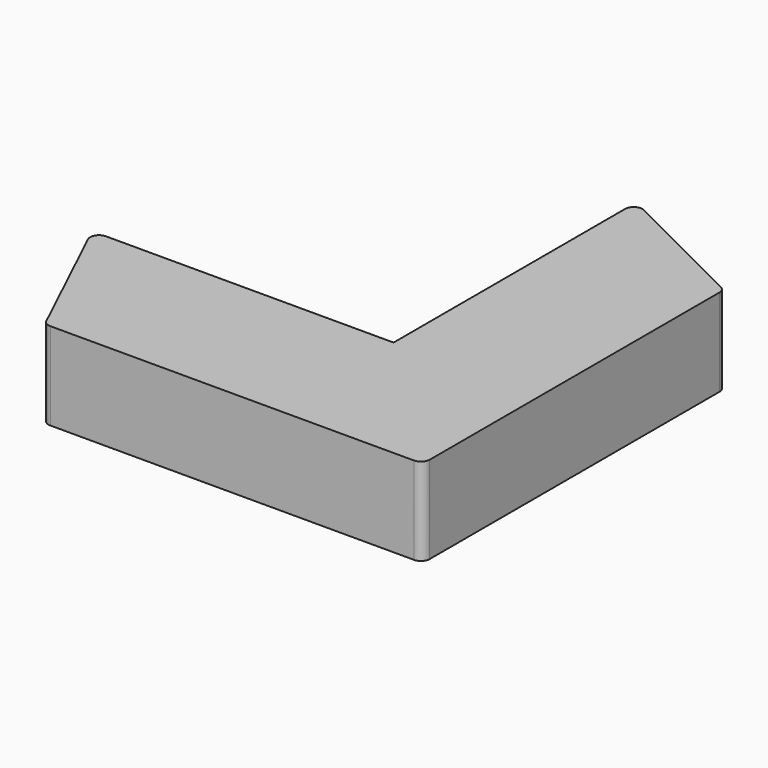
from build123d import *

# Parameters (mm, degrees)
PAD_DEPTH    = 15
POCKET_DEPTH = 8
PAD001_DEPTH = 15


with BuildPart() as part:
    # Sketch → Pad (new body)
    with BuildSketch(Plane.XY):
        with BuildLine():
            Line((-50.61699, -37.307126), (11.75, -37.307126))
            ThreePointArc((11.75, -37.307126), (12.81066, -36.867787), (13.25, -35.807126))
            Line((13.25, -35.807126), (13.25, 26.297858))
            ThreePointArc((13.25, 26.297858), (13.026109, 27.08624), (12.421272, 27.639273))
            Line((12.421272, 27.639273), (-9.578728, 38.648541))
            ThreePointArc((-9.578728, 38.648541), (-11.038382, 38.583235), (-11.75, 37.307126))
            Line((-11.75, 37.307126), (-11.75, -12.307126))
            Line((-11.75, -12.307126), (-61.073474, -12.307126))
            ThreePointArc((-61.073474, -12.307126), (-62.341517, -13.005836), (-62.428236, -14.451037))
            Line((-62.428236, -14.451037), (-51.971751, -36.451037))
            ThreePointArc((-51.971751, -36.451037), (-51.418281, -37.075169), (-50.61699, -37.307126))
        make_face()
    extrude(amount=PAD_DEPTH)

    # Sketch001 (on DatumPlane) → Pocket (cut)
    with BuildSketch(Plane.XY.offset(11.5)):
        Polygon((-8.25, -15.807126), (-57.928236, -15.807126), (-49.971751, -33.807126), (9.75, -33.807126), (9.75, 25.639273), (-8.25, 34.148541), align=None)
    extrude(amount=-POCKET_DEPTH, mode=Mode.SUBTRACT)

    # Sketch002 (on Face5 of Pocket) → Pad001 (join)
    with BuildSketch(Plane.XY.offset(15)):
        Polygon((-33.723206, -37.307126), (-28.723206, -37.307126), (13.25, 4.692874), (13.25, 9.692874), align=None)
    extrude(amount=-PAD001_DEPTH)


solid = part.part
